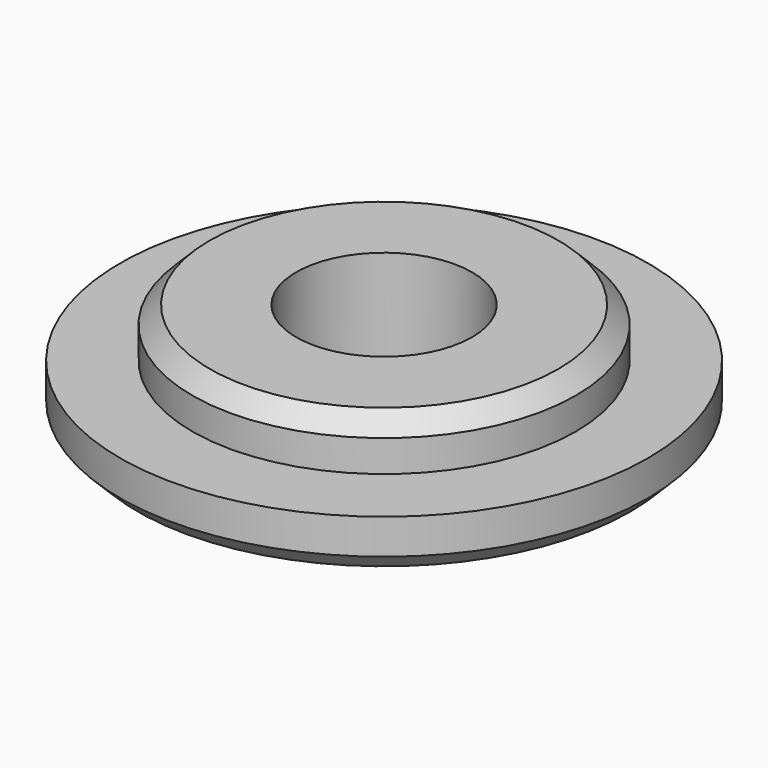
from build123d import *

# Parameters (mm, degrees)
F0_R     = 15
F1_DEPTH = 3
F2_R     = 10.9
F2_R_2   = 5
F3_DEPTH = 5.8
F4_DEPTH = 25
F5_DEPTH = 40.4
F6_SIZE  = 1


with BuildPart() as f1:
    # F0 (on Top) → F1 (new body)
    with BuildSketch(Plane.XY):
        Circle(F0_R)
    extrude(amount=F1_DEPTH)

    # F2 (on Top) → F3 (join)
    with BuildSketch(Plane.XY):
        Circle(F2_R)
        Circle(F2_R_2, mode=Mode.SUBTRACT)
    extrude(amount=F3_DEPTH)

    # F4 (add): a face of the model
    f4_faces = [f1.faces().sort_by_distance(p)[0] for p in [
        (0, 0, 3),
    ]]
    extrude(f4_faces, amount=F4_DEPTH)

    # F5 (cut): a face of the model
    f5_faces = [f1.faces().sort_by_distance(p)[0] for p in [
        (0, 0, 28),
    ]]
    extrude(f5_faces, amount=-F5_DEPTH, mode=Mode.SUBTRACT)

    # F6
    f6_edges = [f1.edges().sort_by_distance(p)[0] for p in [
        (-15, 0, 0),
        (-10.9, 0, 5.8),
    ]]
    chamfer(f6_edges, length=F6_SIZE)


solid = f1.part
